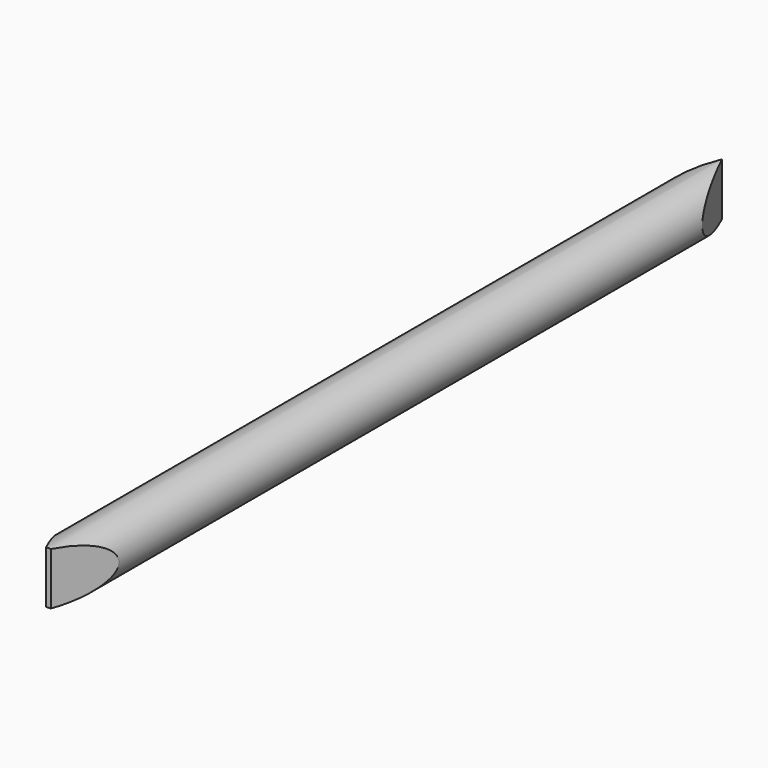
from build123d import *

# Parameters (mm, degrees)
F0_R     = 2.5
F1_DEPTH = 40
F4_DEPTH = 12.5
F5_DEPTH = 12.5


with BuildPart() as f1:
    # F0 (on Front) → F1 (new body, symmetric)
    with BuildSketch(Plane.XZ):
        Circle(F0_R)
    extrude(amount=F1_DEPTH, both=True)

    # F3 (on Top) → F4 (cut, symmetric)
    with BuildSketch(Plane.XY):
        Polygon((0, -40.4892601073), (-4.2708204128, -31.7243561149), (-4.5337388292, -41.365750134), (5.0189574249, -41.1904491484), (5.2598807418, -31.7243561149), (4.0549240075, -31.1984587461), align=None)
    extrude(amount=F4_DEPTH, both=True, mode=Mode.SUBTRACT)

    # F2 (on Top) → F5 (cut, symmetric)
    with BuildSketch(Plane.XY):
        Polygon((-3.1360695139, 40.8483743668), (-3.1360695139, 33.1261791289), (0, 40.0613993406), (3.1597327907, 33.1261791289), (3.4056627192, 40.8483743668), align=None)
    extrude(amount=F5_DEPTH, both=True, mode=Mode.SUBTRACT)


solid = f1.part
